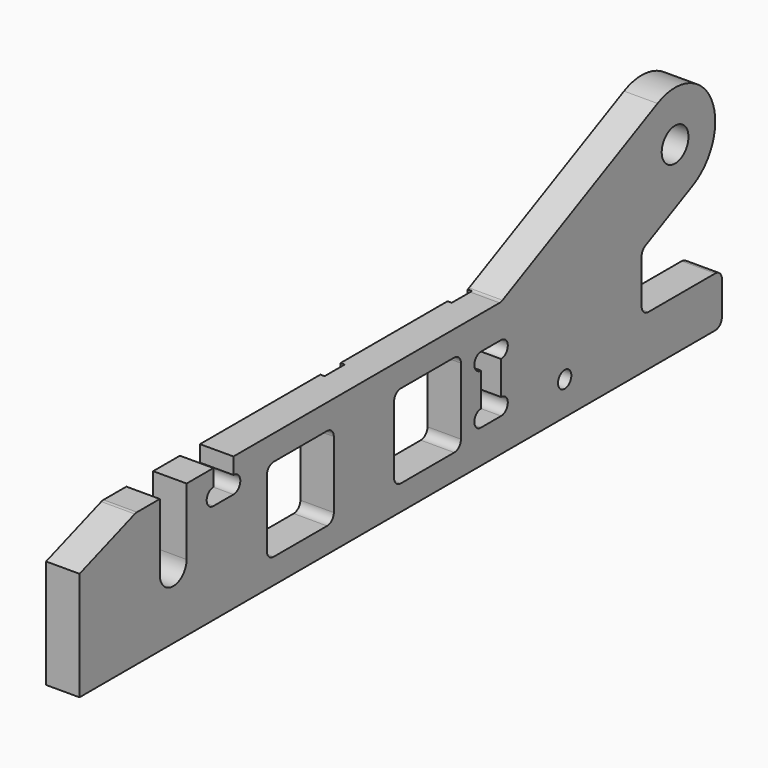
from build123d import *

# Parameters (mm, degrees)
F0_W         = 9.525
F0_H         = 50.8
F0_R         = 3.175
F0_W_2       = 31.75
F0_H_2       = 31.75
F0_R_2       = 6.35
F0_H_3       = 38.1
F1_DEPTH     = 12.7
F2_R         = 3.175
F3_W         = 9.525
F3_H         = 12.7
F1_FACE1_R   = 6.35
F1_FACE1_R_2 = 3.175
F4_DEPTH     = 1.5875
F5_DEPTH     = 1.5875
F6_DEPTH     = 1.5875


with BuildPart() as f1:
    # F0 (on Right) → F1 (new body)
    with BuildSketch(Plane.YZ):
        with Locations((134.9375, 25.4)):
            Rectangle(F0_W, F0_H)
        with BuildLine():
            Line((139.7, 50.8), (139.7, 0))
            Line((139.7, 0), (304.8, 0))
            Line((304.8, 0), (304.8, 19.05))
            Line((304.8, 19.05), (266.7, 19.05))
            Line((266.7, 19.05), (266.7, 40.9178125))
            Line((266.7, 40.9178125), (290.922752809, 52.7264044944))
            ThreePointArc((290.922752809, 52.7264044944), (299.6985955056, 78.197752809), (274.227247191, 86.9735955056))
            Line((274.227247191, 86.9735955056), (200.025, 50.8))
            Line((200.025, 50.8), (139.7, 50.8))
        make_face()
        with Locations((230.1875, 12.7)):
            Circle(F0_R, mode=Mode.SUBTRACT)
        with Locations((165.1, 25.4)):
            Rectangle(F0_W_2, F0_H_2, mode=Mode.SUBTRACT)
        with BuildLine():
            Line((190.5, 38.1), (200.025, 38.1))
            ThreePointArc((200.025, 38.1), (203.2, 34.925), (200.025, 31.75))
            Line((200.025, 31.75), (200.025, 19.05))
            ThreePointArc((200.025, 19.05), (203.2, 15.875), (200.025, 12.7))
            Line((200.025, 12.7), (190.5, 12.7))
            ThreePointArc((190.5, 12.7), (187.325, 15.875), (190.5, 19.05))
            Line((190.5, 19.05), (190.5, 31.75))
            ThreePointArc((190.5, 31.75), (187.325, 34.925), (190.5, 38.1))
        make_face(mode=Mode.SUBTRACT)
        with Locations((282.575, 69.85)):
            Circle(F0_R_2, mode=Mode.SUBTRACT)
        with BuildLine():
            Line((73.025, 38.1), (73.025, 0))
            Line((73.025, 0), (130.175, 0))
            Line((130.175, 0), (130.175, 50.8))
            Line((130.175, 50.8), (73.025, 50.8))
            Line((73.025, 50.8), (73.025, 44.6185247588))
            ThreePointArc((73.025, 44.6185247588), (76.2842623794, 41.3592623794), (73.025, 38.1))
        make_face()
        with Locations((104.775, 25.4)):
            Rectangle(F0_W_2, F0_H_2, mode=Mode.SUBTRACT)
        with Locations((68.2625, 19.05)):
            Rectangle(F0_W, F0_H_3)
        with BuildLine():
            Line((0, 41.275), (0, 0))
            Line((0, 0), (63.5, 0))
            Line((63.5, 0), (63.5, 38.1))
            ThreePointArc((63.5, 38.1), (60.325, 41.275), (63.5, 44.45))
            Line((63.5, 44.45), (63.5, 50.8))
            Line((63.5, 50.8), (50.8, 50.8))
            Line((50.8, 50.8), (50.8, 25.4))
            ThreePointArc((50.8, 25.4), (44.45, 19.05), (38.1, 25.4))
            Line((38.1, 25.4), (38.1, 50.8))
            Line((38.1, 50.8), (26.7157145118, 50.8))
            Line((26.7157145118, 50.8), (0, 41.275))
        make_face()
    extrude(amount=F1_DEPTH)

    # F2
    f2_edges = [f1.edges().sort_by_distance(p)[0] for p in [
        (6.35, 200.025, 50.8),
        (6.35, 266.7, 40.917813),
        (6.35, 266.7, 19.05),
        (6.35, 304.8, 19.05),
        (6.35, 304.8, 0),
        (6.35, 149.225, 41.275),
        (6.35, 88.9, 41.275),
        (6.35, 180.975, 9.525),
        (6.35, 180.975, 41.275),
        (6.35, 120.65, 41.275),
        (6.35, 149.225, 9.525),
        (6.35, 88.9, 9.525),
        (6.35, 120.65, 9.525),
        (6.35, 26.715715, 50.8),
    ]]
    fillet(f2_edges, radius=F2_R)

    # F3 (on face) + F1_face1 (on face) → F4 (cut)
    with BuildSketch(Plane(origin=(0, 0, 0), x_dir=(0, -1, 0), z_dir=(-1, 0, 0))):
        with Locations((-195.2625, 6.35)):
            Rectangle(F3_W, F3_H)
        with BuildLine():
            Line((-190.5, 38.1), (-190.5, 50.8))
            Line((-190.5, 50.8), (-199.2923076923, 50.8))
            ThreePointArc((-199.2923076923, 50.8), (-199.6611512097, 50.8214972713), (-200.025, 50.8856979781))
            Line((-200.025, 50.8856979781), (-200.025, 38.1))
            Line((-200.025, 38.1), (-190.5, 38.1))
        make_face()
    with BuildSketch(Plane(origin=(12.7, 165.3857306848, 30.2558551576), x_dir=(0, 1, 0), z_dir=(1, 0, 0))):
        with BuildLine():
            Line((139.4142693152, -27.0808551576), (139.4142693152, -14.3808551576))
            ThreePointArc((139.4142693152, -14.3808551576), (138.4843333455, -12.1357911273), (136.2392693152, -11.2058551576))
            Line((136.2392693152, -11.2058551576), (104.4892693152, -11.2058551576))
            ThreePointArc((104.4892693152, -11.2058551576), (102.2442052849, -10.2759191878), (101.3142693152, -8.0308551576))
            Line((101.3142693152, -8.0308551576), (101.3142693152, 8.6775823424))
            ThreePointArc((101.3142693152, 8.6775823424), (101.7968747, 10.3603289769), (103.0979771804, 11.5315149267))
            Line((103.0979771804, 11.5315149267), (125.5370221242, 22.4705493368))
            ThreePointArc((125.5370221242, 22.4705493368), (134.3128648208, 47.9418976514), (108.8415165062, 56.717740348))
            Line((108.8415165062, 56.717740348), (35.2978691423, 20.8652122582))
            ThreePointArc((35.2978691423, 20.8652122582), (34.6205059413, 20.6254527961), (33.9065770075, 20.5441448424))
            Line((33.9065770075, 20.5441448424), (-92.3607306848, 20.5441448424))
            Line((-92.3607306848, 20.5441448424), (-92.3607306848, 14.3626696012))
            ThreePointArc((-92.3607306848, 14.3626696012), (-89.1014683054, 11.1034072218), (-92.3607306848, 7.8441448424))
            Line((-92.3607306848, 7.8441448424), (-101.8857306848, 7.8441448424))
            ThreePointArc((-101.8857306848, 7.8441448424), (-105.0607306848, 11.0191448424), (-101.8857306848, 14.1941448424))
            Line((-101.8857306848, 14.1941448424), (-101.8857306848, 20.5441448424))
            Line((-101.8857306848, 20.5441448424), (-114.5857306848, 20.5441448424))
            Line((-114.5857306848, 20.5441448424), (-114.5857306848, -4.8558551576))
            ThreePointArc((-114.5857306848, -4.8558551576), (-120.9357306848, -11.2058551576), (-127.2857306848, -4.8558551576))
            Line((-127.2857306848, -4.8558551576), (-127.2857306848, 20.5441448424))
            Line((-127.2857306848, 20.5441448424), (-138.120948876, 20.5441448424))
            ThreePointArc((-138.120948876, 20.5441448424), (-138.661985551, 20.4977075022), (-139.1871958927, 20.3597538606))
            Line((-139.1871958927, 20.3597538606), (-165.3857306848, 11.0191448424))
            Line((-165.3857306848, 11.0191448424), (-165.3857306848, -30.2558551576))
            Line((-165.3857306848, -30.2558551576), (136.2392693152, -30.2558551576))
            ThreePointArc((136.2392693152, -30.2558551576), (138.4843333455, -29.3259191878), (139.4142693152, -27.0808551576))
        make_face()
        with Locations((117.1892693152, 39.5941448424)):
            Circle(F1_FACE1_R, mode=Mode.SUBTRACT)
        with Locations((64.8017693152, -17.5558551576)):
            Circle(F1_FACE1_R_2, mode=Mode.SUBTRACT)
        with BuildLine():
            Line((34.6392693152, -17.5558551576), (25.1142693152, -17.5558551576))
            ThreePointArc((25.1142693152, -17.5558551576), (21.9392693152, -14.3808551576), (25.1142693152, -11.2058551576))
            Line((25.1142693152, -11.2058551576), (25.1142693152, 1.4941448424))
            ThreePointArc((25.1142693152, 1.4941448424), (21.9392693152, 4.6691448424), (25.1142693152, 7.8441448424))
            Line((25.1142693152, 7.8441448424), (34.6392693152, 7.8441448424))
            ThreePointArc((34.6392693152, 7.8441448424), (37.8142693152, 4.6691448424), (34.6392693152, 1.4941448424))
            Line((34.6392693152, 1.4941448424), (34.6392693152, -11.2058551576))
            ThreePointArc((34.6392693152, -11.2058551576), (37.8142693152, -14.3808551576), (34.6392693152, -17.5558551576))
        make_face(mode=Mode.SUBTRACT)
        with BuildLine():
            Line((-16.1607306848, -17.5558551576), (-16.1607306848, 7.8441448424))
            ThreePointArc((-16.1607306848, 7.8441448424), (-15.2307947151, 10.0892088727), (-12.9857306848, 11.0191448424))
            Line((-12.9857306848, 11.0191448424), (12.4142693152, 11.0191448424))
            ThreePointArc((12.4142693152, 11.0191448424), (14.6593333455, 10.0892088727), (15.5892693152, 7.8441448424))
            Line((15.5892693152, 7.8441448424), (15.5892693152, -17.5558551576))
            ThreePointArc((15.5892693152, -17.5558551576), (14.6593333455, -19.8009191878), (12.4142693152, -20.7308551576))
            Line((12.4142693152, -20.7308551576), (-12.9857306848, -20.7308551576))
            ThreePointArc((-12.9857306848, -20.7308551576), (-15.2307947151, -19.8009191878), (-16.1607306848, -17.5558551576))
        make_face(mode=Mode.SUBTRACT)
        with BuildLine():
            Line((-47.9107306848, -20.7308551576), (-73.3107306848, -20.7308551576))
            ThreePointArc((-73.3107306848, -20.7308551576), (-75.5557947151, -19.8009191878), (-76.4857306848, -17.5558551576))
            Line((-76.4857306848, -17.5558551576), (-76.4857306848, 7.8441448424))
            ThreePointArc((-76.4857306848, 7.8441448424), (-75.5557947151, 10.0892088727), (-73.3107306848, 11.0191448424))
            Line((-73.3107306848, 11.0191448424), (-47.9107306848, 11.0191448424))
            ThreePointArc((-47.9107306848, 11.0191448424), (-45.6656666545, 10.0892088727), (-44.7357306848, 7.8441448424))
            Line((-44.7357306848, 7.8441448424), (-44.7357306848, -17.5558551576))
            ThreePointArc((-44.7357306848, -17.5558551576), (-45.6656666545, -19.8009191878), (-47.9107306848, -20.7308551576))
        make_face(mode=Mode.SUBTRACT)
    extrude(amount=-F4_DEPTH, dir=(-1, 0, 0), mode=Mode.SUBTRACT)

    # F0 (on Right) → F5 (cut)
    with BuildSketch(Plane.YZ):
        with Locations((134.9375, 25.4)):
            Rectangle(F0_W, F0_H)
    extrude(amount=F5_DEPTH, mode=Mode.SUBTRACT)

    # F0 (on Right) → F6 (cut)
    with BuildSketch(Plane.YZ):
        with Locations((68.2625, 19.05)):
            Rectangle(F0_W, F0_H_3)
    extrude(amount=F6_DEPTH, mode=Mode.SUBTRACT)


solid = f1.part
